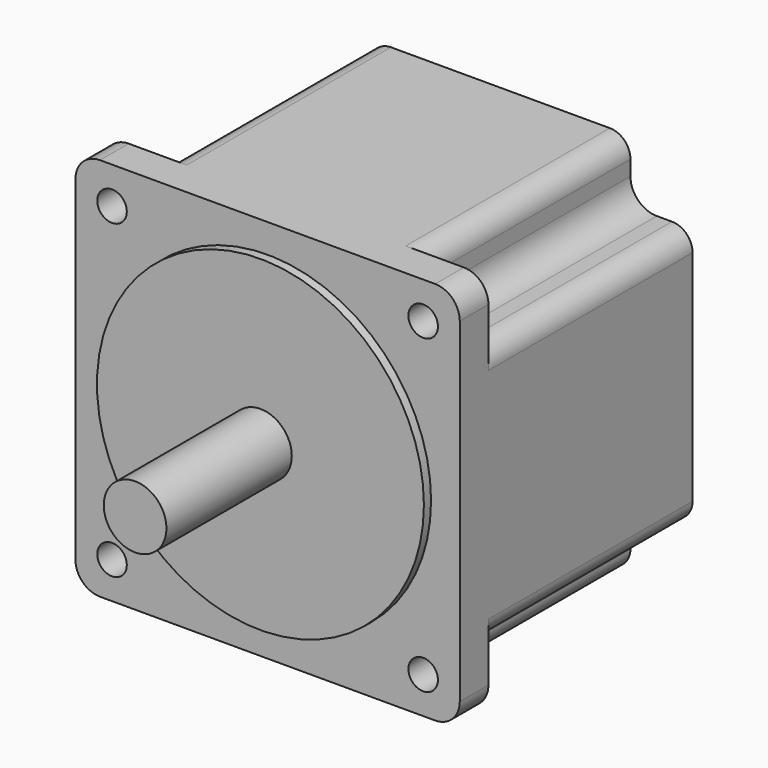
from build123d import *

# Parameters (mm, degrees)
F0_R     = 36.5125
F0_R_2   = 7
F2_DEPTH = 2
F3_DEPTH = 37
F0_R_3   = 3.3
F4_DEPTH = 8
F5_DEPTH = 65


with BuildPart() as f2:
    # F0 (on Front) → F2 (new body)
    with BuildSketch(Plane.XZ):
        Circle(F0_R)
        Circle(F0_R_2, mode=Mode.SUBTRACT)
    extrude(amount=F2_DEPTH)

    # F0 (on Front) → F3 (join)
    with BuildSketch(Plane.XZ):
        Circle(F0_R_2)
    extrude(amount=F3_DEPTH)



with BuildPart() as f4:
    # F0 (on Front) → F4 (new body)
    with BuildSketch(Plane.XZ):
        with BuildLine():
            ThreePointArc((42.925, 37.425), (41.314087, 41.314087), (37.425, 42.925))
            Line((37.425, 42.925), (-37.425, 42.925))
            ThreePointArc((-37.425, 42.925), (-41.314087, 41.314087), (-42.925, 37.425))
            Line((-42.925, 37.425), (-42.925, -37.425))
            ThreePointArc((-42.925, -37.425), (-41.314087, -41.314087), (-37.425, -42.925))
            Line((-37.425, -42.925), (37.425, -42.925))
            ThreePointArc((37.425, -42.925), (41.314087, -41.314087), (42.925, -37.425))
            Line((42.925, -37.425), (42.925, 37.425))
        make_face()
        with Locations((-34.75, -34.75)):
            Circle(F0_R_3, mode=Mode.SUBTRACT)
        with Locations((34.75, -34.75)):
            Circle(F0_R_3, mode=Mode.SUBTRACT)
        with Locations((-34.75, 34.75)):
            Circle(F0_R_3, mode=Mode.SUBTRACT)
        Circle(F0_R, mode=Mode.SUBTRACT)
        with Locations((34.75, 34.75)):
            Circle(F0_R_3, mode=Mode.SUBTRACT)
        Circle(F0_R)
        Circle(F0_R_2, mode=Mode.SUBTRACT)
    extrude(amount=-F4_DEPTH)


with BuildPart() as f2_1:
    add(f2.part)

    add(f4.part)  # F5 merges F4
    # F1 (on Front) → F5 (join)
    with BuildSketch(Plane.XZ):
        with BuildLine():
            ThreePointArc((29.05, 38.325), (27.702691, 41.577691), (24.45, 42.925))
            Line((24.45, 42.925), (-24.45, 42.925))
            ThreePointArc((-24.45, 42.925), (-27.702691, 41.577691), (-29.05, 38.325))
            Line((-29.05, 38.325), (-29.05, 34.95))
            ThreePointArc((-29.05, 34.95), (-30.77807, 30.77807), (-34.95, 29.05))
            Line((-34.95, 29.05), (-38.325, 29.05))
            ThreePointArc((-38.325, 29.05), (-41.577691, 27.702691), (-42.925, 24.45))
            Line((-42.925, 24.45), (-42.925, -24.45))
            ThreePointArc((-42.925, -24.45), (-41.577691, -27.702691), (-38.325, -29.05))
            Line((-38.325, -29.05), (-34.95, -29.05))
            ThreePointArc((-34.95, -29.05), (-30.77807, -30.77807), (-29.05, -34.95))
            Line((-29.05, -34.95), (-29.05, -38.325))
            ThreePointArc((-29.05, -38.325), (-27.702691, -41.577691), (-24.45, -42.925))
            Line((-24.45, -42.925), (24.45, -42.925))
            ThreePointArc((24.45, -42.925), (27.702691, -41.577691), (29.05, -38.325))
            Line((29.05, -38.325), (29.05, -34.95))
            ThreePointArc((29.05, -34.95), (30.77807, -30.77807), (34.95, -29.05))
            Line((34.95, -29.05), (38.325, -29.05))
            ThreePointArc((38.325, -29.05), (41.577691, -27.702691), (42.925, -24.45))
            Line((42.925, -24.45), (42.925, 24.45))
            ThreePointArc((42.925, 24.45), (41.577691, 27.702691), (38.325, 29.05))
            Line((38.325, 29.05), (34.95, 29.05))
            ThreePointArc((34.95, 29.05), (30.77807, 30.77807), (29.05, 34.95))
            Line((29.05, 34.95), (29.05, 38.325))
        make_face()
    extrude(amount=-F5_DEPTH)


solid = f2_1.part
